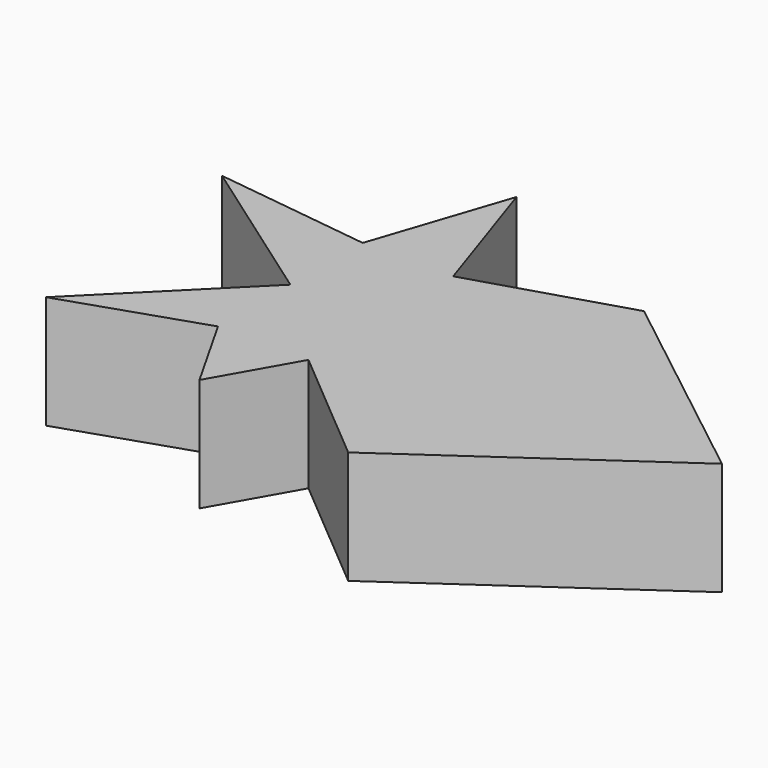
from build123d import *

# Parameters (mm, degrees)
PAD_DEPTH = 25


with BuildPart() as part:
    # Sketch → Pad (new body)
    with BuildSketch(Plane.XY):
        Polygon((0, 50), (10, 20), (43.853345, 30.418955), (90, -5.743561), (36.976033, -42.730898), (10, -20), (0, -37.619446), (-10, -20), (-40, -30), (-10, 0), (-44.641579, 24.425409), (-10, 20), align=None)
    extrude(amount=PAD_DEPTH)


solid = part.part
